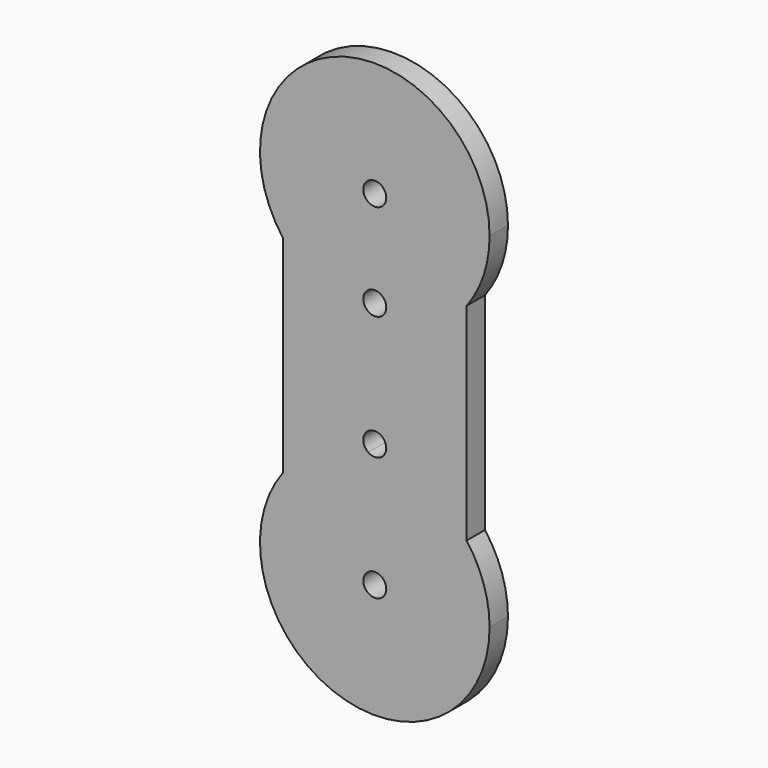
from build123d import *

# Parameters (mm, degrees)
F0_R     = 2.5
F1_DEPTH = 5


with BuildPart() as f1:
    # F0 (on Front) → F1 (new body)
    with BuildSketch(Plane.XZ):
        with BuildLine():
            ThreePointArc((20, 32.8825393335), (23.7170824513, 39.9768451831), (25, 47.8825393335))
            ThreePointArc((25, 47.8825393335), (-7.9056941504, 71.5996217848), (-20, 32.8825393335))
            Line((-20, 32.8825393335), (20, 32.8825393335))
        make_face()
        with Locations((0, 47.8825393335)):
            Circle(F0_R, mode=Mode.SUBTRACT)
        with BuildLine():
            Line((20, 32.8825393335), (-20, 32.8825393335))
            ThreePointArc((-20, 32.8825393335), (0, 22.8825393335), (20, 32.8825393335))
        make_face()
        with Locations((0, 26.8825393335)):
            Circle(F0_R, mode=Mode.SUBTRACT)
        with BuildLine():
            ThreePointArc((20, 32.8825393335), (0, 22.8825393335), (-20, 32.8825393335))
            Line((-20, 32.8825393335), (-20, -12.1174606665))
            ThreePointArc((-20, -12.1174606665), (-11.821177666, -5.0888483954), (-1.4427741411, -2.1591273332))
            ThreePointArc((-1.4427741411, -2.1591273332), (-1.1495791942, 2.1025545759), (2.5, -0.1174606665))
            ThreePointArc((2.5, -0.1174606665), (2.2200152424, -1.2670398606), (1.4427741411, -2.1591273332))
            ThreePointArc((1.4427741411, -2.1591273332), (11.821177666, -5.0888483954), (20, -12.1174606665))
            Line((20, -12.1174606665), (20, 32.8825393335))
        make_face()
        with BuildLine():
            Line((20, -12.1174606665), (-20, -12.1174606665))
            ThreePointArc((-20, -12.1174606665), (-7.9056941504, -50.8345431177), (25, -27.1174606665))
            ThreePointArc((25, -27.1174606665), (23.7170824513, -19.2117665161), (20, -12.1174606665))
        make_face()
        with Locations((0, -27.1174606665)):
            Circle(F0_R, mode=Mode.SUBTRACT)
        with BuildLine():
            ThreePointArc((-1.4427741411, -2.1591273332), (-11.821177666, -5.0888483954), (-20, -12.1174606665))
            Line((-20, -12.1174606665), (20, -12.1174606665))
            ThreePointArc((20, -12.1174606665), (11.821177666, -5.0888483954), (1.4427741411, -2.1591273332))
            ThreePointArc((1.4427741411, -2.1591273332), (0, -2.6174606665), (-1.4427741411, -2.1591273332))
        make_face()
    extrude(amount=F1_DEPTH)


solid = f1.part
